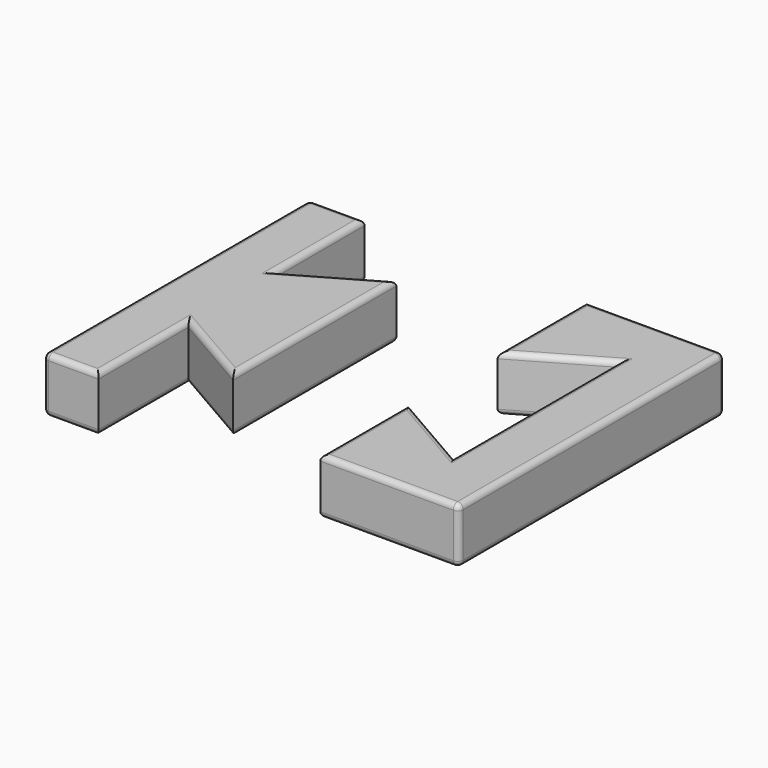
from build123d import *

# Parameters (mm, degrees)
PAD_DEPTH    = 10
FILLET001_R  = 1
PAD001_DEPTH = 10
FILLET_R     = 1


with BuildPart() as body:
    # Sketch → Pad (new body)
    with BuildSketch(Plane.XY):
        Polygon((0, -30), (0, -10), (15, -18.660254), (15, 18.660254), (0, 10), (0, 30), (25, 30), (25, -30), align=None)
    extrude(amount=PAD_DEPTH)

    # Fillet001
    fillet001_edges = [body.edges().sort_by_distance(p)[0] for p in [
        (25, 30, 5),
        (25, -30, 5),
        (25, 0, 0),
        (25, 0, 10),
        (12.5, -30, 10),
        (12.5, -30, 0),
        (12.5, 30, 10),
        (12.5, 30, 0),
        (0, -20, 0),
        (7.5, -14.330127, 0),
        (15, 0, 0),
        (7.5, 14.330127, 0),
        (0, 20, 0),
        (0, -20, 10),
        (7.5, -14.330127, 10),
        (15, 0, 10),
        (7.5, 14.330127, 10),
        (0, 20, 10),
    ]]
    fillet(fillet001_edges, radius=FILLET001_R)


with BuildPart() as body001:
    # Sketch002 → Pad001 (new body)
    with BuildSketch(Plane.XY):
        Polygon((-50, -30), (-49.99998, 30), (-39.99998, 29.999993), (-40, 9.75), (-25.000012, 18.410219), (-25, -18.410242), (-40.000007, -9.75), (-40, -30), align=None)
    extrude(amount=PAD001_DEPTH)

    # Fillet
    fillet_edges = [body001.edges().sort_by_distance(p)[0] for p in [
        (-50, -30, 5),
        (-49.99998, 30, 5),
        (-49.99999, 0, 0),
        (-49.99999, 0, 10),
        (-44.99998, 29.999997, 0),
        (-44.99998, 29.999997, 10),
        (-45, -30, 0),
        (-45, -30, 10),
        (-39.99999, 19.874997, 0),
        (-32.500006, 14.080109, 0),
        (-25.000006, -1.2e-05, 0),
        (-32.500003, -14.080121, 0),
        (-40.000003, -19.875, 0),
        (-39.99999, 19.874997, 10),
        (-32.500006, 14.080109, 10),
        (-25.000006, -1.2e-05, 10),
        (-32.500003, -14.080121, 10),
        (-40.000003, -19.875, 10),
    ]]
    fillet(fillet_edges, radius=FILLET_R)


solid = Compound([body.part, body001.part])
